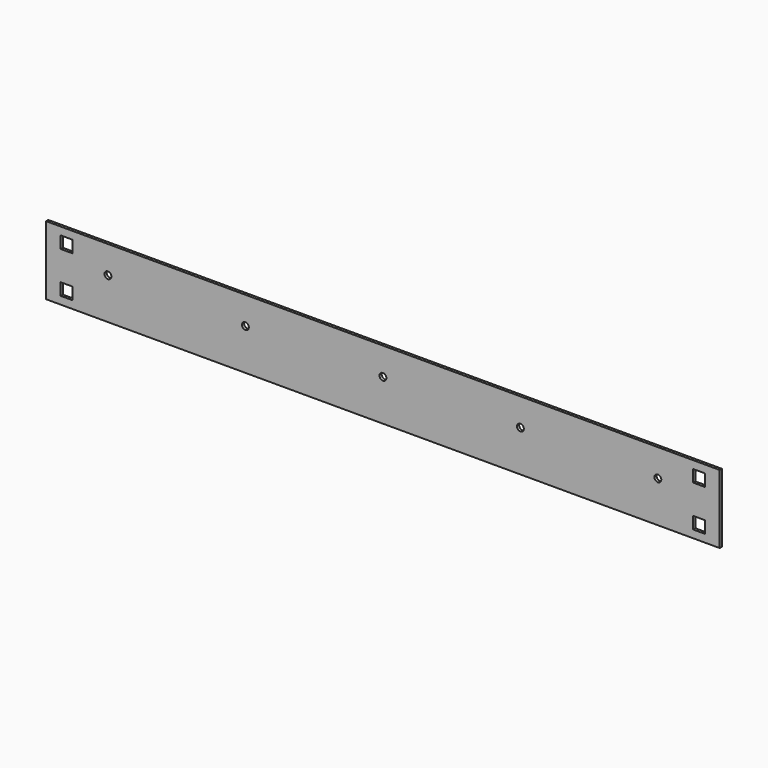
from build123d import *

# Parameters (mm, degrees)
F0_W     = 622.3
F0_H     = 63.5
F0_W_2   = 11.1125
F0_H_2   = 11.1125
F0_R     = 3.175
F1_DEPTH = 1.27


with BuildPart() as f1:
    # F0 (on Front) → F1 (new body, symmetric)
    with BuildSketch(Plane.XZ):
        Rectangle(F0_W, F0_H)
        with Locations((-292.1, -19.05)):
            Rectangle(F0_W_2, F0_H_2, mode=Mode.SUBTRACT)
        with Locations((292.1, -19.05)):
            Rectangle(F0_W_2, F0_H_2, mode=Mode.SUBTRACT)
        with Locations((-254, 6.35)):
            Circle(F0_R, mode=Mode.SUBTRACT)
        with Locations((-127, 6.35)):
            Circle(F0_R, mode=Mode.SUBTRACT)
        with Locations((-292.1, 19.05)):
            Rectangle(F0_W_2, F0_H_2, mode=Mode.SUBTRACT)
        with Locations((0, 6.35)):
            Circle(F0_R, mode=Mode.SUBTRACT)
        with Locations((127, 6.35)):
            Circle(F0_R, mode=Mode.SUBTRACT)
        with Locations((254, 6.35)):
            Circle(F0_R, mode=Mode.SUBTRACT)
        with Locations((292.1, 19.05)):
            Rectangle(F0_W_2, F0_H_2, mode=Mode.SUBTRACT)
    extrude(amount=F1_DEPTH, both=True)


solid = f1.part
